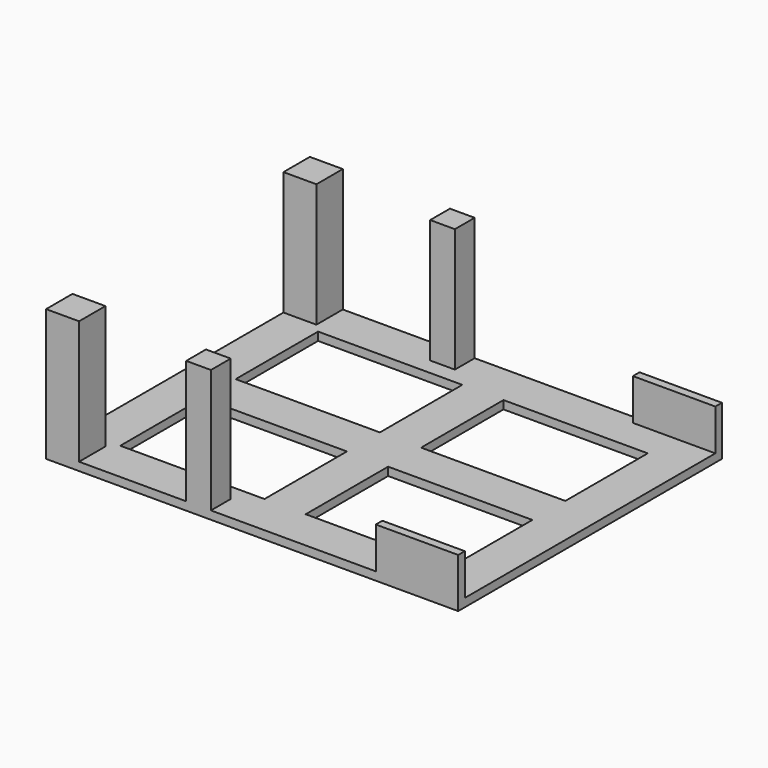
from build123d import *

# Parameters (mm, degrees)
BOX009_W     = 10
BOX009_H     = 80
BOX009_DEPTH = 2
BOX008_W     = 20
BOX008_H     = 2
BOX008_DEPTH = 12
BOX007_W     = 20
BOX007_H     = 2
BOX007_DEPTH = 12
BOX006_W     = 80
BOX006_H     = 25
BOX006_DEPTH = 10
BOX005_W     = 80
BOX005_H     = 25
BOX005_DEPTH = 10
BOX004_W     = 6
BOX004_H     = 6
BOX004_DEPTH = 32
BOX003_W     = 6
BOX003_H     = 6
BOX003_DEPTH = 32
BOX002_W     = 8
BOX002_H     = 8
BOX002_DEPTH = 32
BOX001_W     = 8
BOX001_H     = 8
BOX001_DEPTH = 32
BOX_W        = 100
BOX_H        = 80
BOX_DEPTH    = 2


with BuildPart() as cube009:
    # Box009 → Box009 (new body)
    with BuildSketch(Plane(origin=(45, 0, 0), x_dir=(1, 0, 0), z_dir=(0, 0, 1))):
        with Locations((5, 40)):
            Rectangle(BOX009_W, BOX009_H)
    extrude(amount=BOX009_DEPTH)


with BuildPart() as cube008:
    # Box008 → Box008 (new body)
    with BuildSketch(Plane(origin=(80, 78, 0), x_dir=(1, 0, 0), z_dir=(0, 0, 1))):
        with Locations((10, 1)):
            Rectangle(BOX008_W, BOX008_H)
    extrude(amount=BOX008_DEPTH)


with BuildPart() as cube007:
    # Box007 → Box007 (new body)
    with BuildSketch(Plane(origin=(80, 0, 0), x_dir=(1, 0, 0), z_dir=(0, 0, 1))):
        with Locations((10, 1)):
            Rectangle(BOX007_W, BOX007_H)
    extrude(amount=BOX007_DEPTH)


with BuildPart() as cube006:
    # Box006 → Box006 (new body)
    with BuildSketch(Plane(origin=(10, 45, 0), x_dir=(1, 0, 0), z_dir=(0, 0, 1))):
        with Locations((40, 12.5)):
            Rectangle(BOX006_W, BOX006_H)
    extrude(amount=BOX006_DEPTH)


with BuildPart() as cube005:
    # Box005 → Box005 (new body)
    with BuildSketch(Plane(origin=(10, 10, 0), x_dir=(1, 0, 0), z_dir=(0, 0, 1))):
        with Locations((40, 12.5)):
            Rectangle(BOX005_W, BOX005_H)
    extrude(amount=BOX005_DEPTH)


with BuildPart() as cube004:
    # Box004 → Box004 (new body)
    with BuildSketch(Plane(origin=(34, 74, 0), x_dir=(1, 0, 0), z_dir=(0, 0, 1))):
        with Locations((3, 3)):
            Rectangle(BOX004_W, BOX004_H)
    extrude(amount=BOX004_DEPTH)


with BuildPart() as cube003:
    # Box003 → Box003 (new body)
    with BuildSketch(Plane(origin=(34, 0, 0), x_dir=(1, 0, 0), z_dir=(0, 0, 1))):
        with Locations((3, 3)):
            Rectangle(BOX003_W, BOX003_H)
    extrude(amount=BOX003_DEPTH)


with BuildPart() as cube002:
    # Box002 → Box002 (new body)
    with BuildSketch(Plane(origin=(0, 72, 0), x_dir=(1, 0, 0), z_dir=(0, 0, 1))):
        with Locations((4, 4)):
            Rectangle(BOX002_W, BOX002_H)
    extrude(amount=BOX002_DEPTH)


with BuildPart() as cube001:
    # Box001 → Box001 (new body)
    with BuildSketch(Plane.XY):
        with Locations((4, 4)):
            Rectangle(BOX001_W, BOX001_H)
    extrude(amount=BOX001_DEPTH)


with BuildPart() as fusion006:
    # Box → Box (new body)
    with BuildSketch(Plane.XY):
        with Locations((50, 40)):
            Rectangle(BOX_W, BOX_H)
    extrude(amount=BOX_DEPTH)

    # Fusion: union Cube001
    add(cube001.part)

    # Fusion001: union Cube002
    add(cube002.part)

    # Fusion002: union Cube003
    add(cube003.part)

    # Fusion003: union Cube004
    add(cube004.part)

    # Cut: cut Cube005
    add(cube005.part, mode=Mode.SUBTRACT)

    # Cut001: cut Cube006
    add(cube006.part, mode=Mode.SUBTRACT)

    # Fusion004: union Cube007
    add(cube007.part)

    # Fusion005: union Cube008
    add(cube008.part)

    # Fusion006: union Cube009
    add(cube009.part)


solid = fusion006.part
